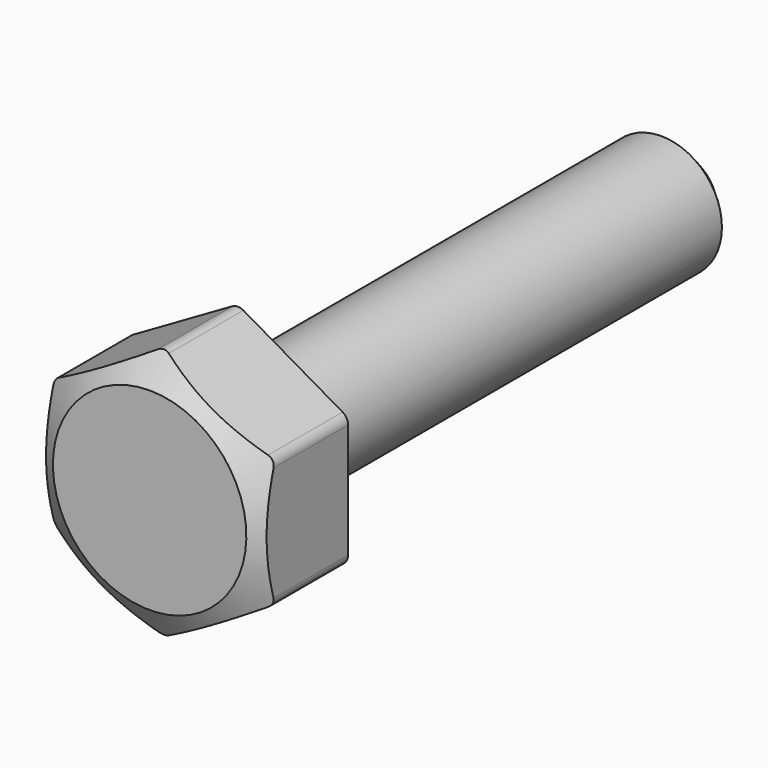
from build123d import *

# Parameters (mm, degrees)
F0_R     = 2.75
F1_DEPTH = 25
F2_SIZE  = 1
F4_DEPTH = 5
F5_R     = 0.5


with BuildPart() as f1:
    # F0 (on Front) → F1 (new body)
    with BuildSketch(Plane.XZ):
        Circle(F0_R)
    extrude(amount=-F1_DEPTH)

    # F2
    f2_edges = [f1.edges().sort_by_distance(p)[0] for p in [
        (-2.75, 25, 0),
    ]]
    chamfer(f2_edges, length=F2_SIZE)

    # F3 (on face) → F4 (join)
    with BuildSketch(Plane.XZ):
        Polygon((5, -2.886751), (5, 2.886751), (0, 5.773503), (-5, 2.886751), (-5, -2.886751), (0, -5.773503), align=None)
    extrude(amount=F4_DEPTH)

    # F5
    f5_edges = [f1.edges().sort_by_distance(p)[0] for p in [
        (5, -2.5, 2.886751),
        (0, -2.5, 5.773503),
        (-5, -2.5, 2.886751),
        (0, -2.5, -5.773503),
        (-5, -2.5, -2.886751),
        (5, -2.5, -2.886751),
    ]]
    fillet(f5_edges, radius=F5_R)

    # F6 (on Right) → F7 (revolve, cut)
    with BuildSketch(Plane.YZ):
        Polygon((-5.362704, 6), (-5.362704, 3.8), (-4, 6), align=None)
    revolve(axis=Axis((0, -4.871394, 0), (0, 1, 0)), mode=Mode.SUBTRACT)


solid = f1.part
